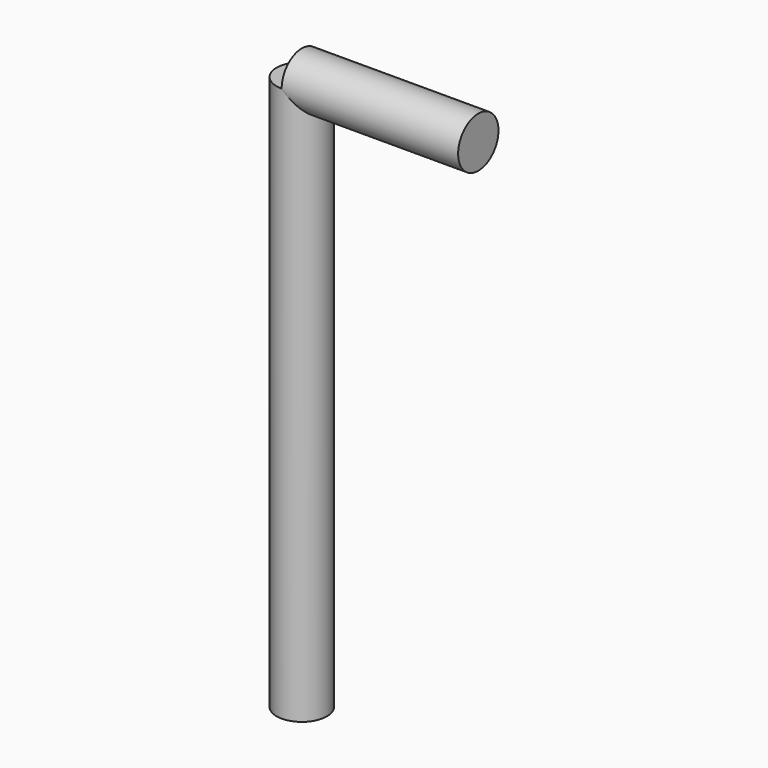
from build123d import *

# Parameters (mm, degrees)
CYLINDER_R        = 5
CYLINDER_DEPTH    = 110
CYLINDER001_R     = 5
CYLINDER001_DEPTH = 35


with BuildPart() as part:
    # Cylinder → Cylinder (join)
    with BuildSketch(Plane.XY):
        Circle(CYLINDER_R)
    extrude(amount=CYLINDER_DEPTH)

    # Cylinder001 → Cylinder001 (join)
    with BuildSketch(Plane(origin=(0, 0, 110), x_dir=(0, 1, 0), z_dir=(1, 0, 0))):
        Circle(CYLINDER001_R)
    extrude(amount=CYLINDER001_DEPTH)


solid = part.part
